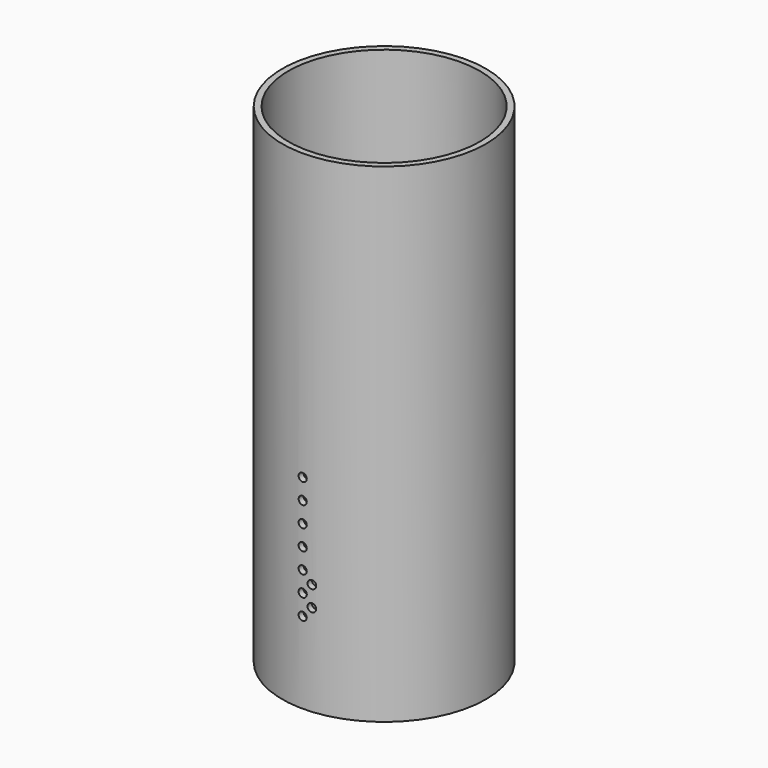
from build123d import *

# Parameters (mm, degrees)
F35_R     = 63.5
F36_DEPTH = 304.8
F38_R     = 59.69
F39_DEPTH = 304.801
F40_R     = 2.54
F47_DEPTH = 63.5
F41_R     = 2.54
F48_DEPTH = 63.5
F42_R     = 2.54
F49_DEPTH = 63.5
F43_R     = 2.54
F50_DEPTH = 63.5
F44_R     = 2.54
F51_DEPTH = 63.5
F45_R     = 2.54
F52_DEPTH = 63.5
F46_R     = 2.54
F53_DEPTH = 63.5
F54_R     = 2.54
F59_DEPTH = 63.5
F55_R     = 2.54
F60_DEPTH = 63.5


with BuildPart() as f36:
    # F35 (on Top) → F36 (new body)
    with BuildSketch(Plane.XY):
        Circle(F35_R)
    extrude(amount=F36_DEPTH)

    # F38 (on face) → F39 (cut, through all)
    with BuildSketch(Plane.XY.offset(304.8)):
        Circle(F38_R)
    extrude(amount=-F39_DEPTH, mode=Mode.SUBTRACT)

    # F40 (on line) → F47 (cut, symmetric)
    with BuildSketch(Plane(origin=(0, 0, 0), x_dir=(-1, 0, 0), z_dir=(0, 1, 0))):
        with Locations((0, 50.8)):
            Circle(F40_R)
    extrude(amount=F47_DEPTH, both=True, mode=Mode.SUBTRACT)

    # F41 (on line) → F48 (cut, symmetric)
    with BuildSketch(Plane(origin=(0, 0, 0), x_dir=(-1, 0, 0), z_dir=(0, 1, 0))):
        with Locations((0, 63.5)):
            Circle(F41_R)
    extrude(amount=F48_DEPTH, both=True, mode=Mode.SUBTRACT)

    # F42 (on line) → F49 (cut, symmetric)
    with BuildSketch(Plane(origin=(0, 0, 0), x_dir=(-1, 0, 0), z_dir=(0, 1, 0))):
        with Locations((0, 76.2)):
            Circle(F42_R)
    extrude(amount=F49_DEPTH, both=True, mode=Mode.SUBTRACT)

    # F43 (on line) → F50 (cut, symmetric)
    with BuildSketch(Plane(origin=(0, 0, 0), x_dir=(-1, 0, 0), z_dir=(0, 1, 0))):
        with Locations((0, 88.9)):
            Circle(F43_R)
    extrude(amount=F50_DEPTH, both=True, mode=Mode.SUBTRACT)

    # F44 (on line) → F51 (cut, symmetric)
    with BuildSketch(Plane(origin=(0, 0, 0), x_dir=(-1, 0, 0), z_dir=(0, 1, 0))):
        with Locations((0, 101.6)):
            Circle(F44_R)
    extrude(amount=F51_DEPTH, both=True, mode=Mode.SUBTRACT)

    # F45 (on line) → F52 (cut, symmetric)
    with BuildSketch(Plane(origin=(0, 0, 0), x_dir=(-1, 0, 0), z_dir=(0, 1, 0))):
        with Locations((0, 114.3)):
            Circle(F45_R)
    extrude(amount=F52_DEPTH, both=True, mode=Mode.SUBTRACT)

    # F46 (on line) → F53 (cut, symmetric)
    with BuildSketch(Plane(origin=(0, 0, 0), x_dir=(-1, 0, 0), z_dir=(0, 1, 0))):
        with Locations((0, 127)):
            Circle(F46_R)
    extrude(amount=F53_DEPTH, both=True, mode=Mode.SUBTRACT)

    # F54 (on face) → F59 (cut, symmetric)
    with BuildSketch(Plane(origin=(0, 0, 0), x_dir=(0.9961946981, 0.0871557427, 0), z_dir=(0.0871557427, -0.9961946981, 0))):
        with Locations((0, 57.15)):
            Circle(F54_R)
    extrude(amount=F59_DEPTH, both=True, mode=Mode.SUBTRACT)

    # F55 (on face) → F60 (cut, symmetric)
    with BuildSketch(Plane(origin=(0, 0, 0), x_dir=(0.9961946981, 0.0871557427, 0), z_dir=(0.0871557427, -0.9961946981, 0))):
        with Locations((0, 69.85)):
            Circle(F55_R)
    extrude(amount=F60_DEPTH, both=True, mode=Mode.SUBTRACT)


solid = f36.part
